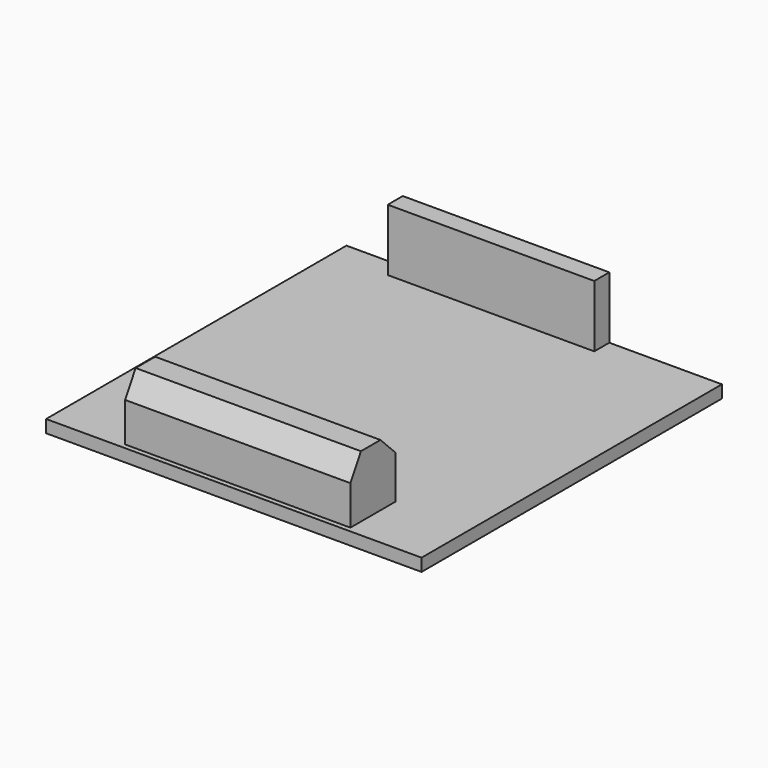
from build123d import *

# Parameters (mm, degrees)
F0_W     = 50.8
F0_H     = 50.8
F1_DEPTH = 1.7018
F2_W     = 30.48
F2_H     = 7.62
F3_DEPTH = 8.382
F4_W     = 27.94
F4_H     = 2.54
F5_DEPTH = 8.382
F6_SIZE  = 2.54
F7_SIZE2 = 3.079586
F7_SIZE  = 1.778


with BuildPart() as f1:
    # F0 (on Top) → F1 (new body)
    with BuildSketch(Plane.XY):
        Rectangle(F0_W, F0_H)
    extrude(amount=F1_DEPTH)


with BuildPart() as f3:
    # F2 (on face) → F3 (new body)
    with BuildSketch(Plane.XY.offset(1.7018)):
        with Locations((0, -20.922448)):
            Rectangle(F2_W, F2_H)
    extrude(amount=F3_DEPTH)

    # F6
    f6_edges = [f3.edges().sort_by_distance(p)[0] for p in [
        (0, -17.112448, 10.0838),
    ]]
    chamfer(f6_edges, length=F6_SIZE)

    # F7
    f7_edges = [f3.edges().sort_by_distance(p)[0] for p in [
        (0, -24.732448, 10.0838),
    ]]
    chamfer(f7_edges, length=F7_SIZE, length2=F7_SIZE2)


with BuildPart() as f5:
    # F4 (on face) → F5 (new body)
    with BuildSketch(Plane.XY.offset(1.7018)):
        with Locations((-3.81, 24.13)):
            Rectangle(F4_W, F4_H)
    extrude(amount=F5_DEPTH)


solid = Compound([f1.part, f3.part, f5.part])
